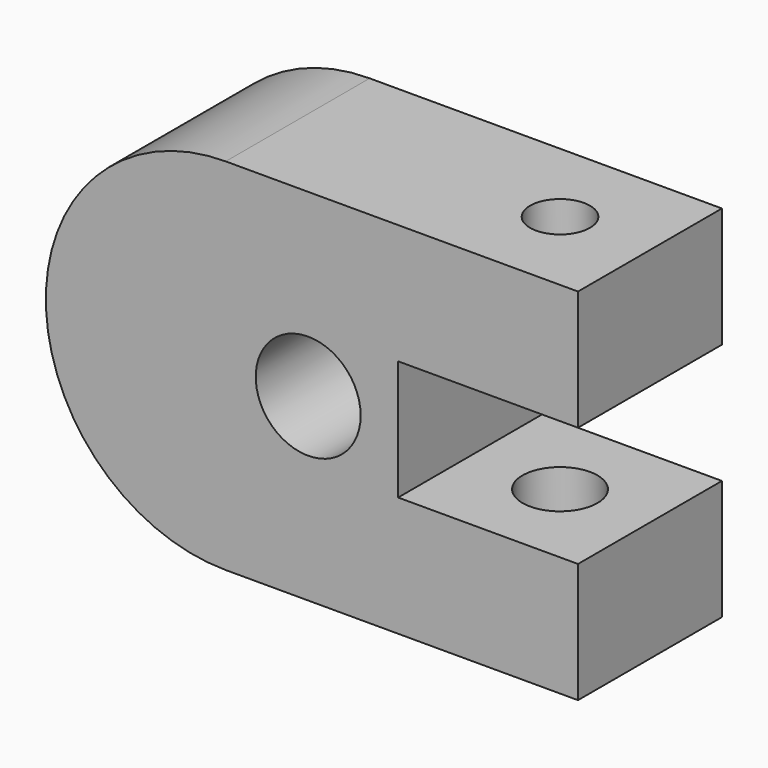
from build123d import *

# Parameters (mm, degrees)
F0_R     = 22.225
F1_DEPTH = 76.2
F2_R     = 12.7
F4_DEPTH = 56.642
F3_R     = 15.875
F5_DEPTH = 101.6


with BuildPart() as f1:
    # F0 (on Front) → F1 (new body)
    with BuildSketch(Plane.XZ):
        with BuildLine():
            Line((-149.225, 0), (0, 0))
            Line((0, 0), (0, 50.8))
            Line((0, 50.8), (-76.2, 50.8))
            Line((-76.2, 50.8), (-76.2, 101.6))
            Line((-76.2, 101.6), (0, 101.6))
            Line((0, 101.6), (0, 152.4))
            Line((0, 152.4), (-149.225, 152.4))
            ThreePointArc((-149.225, 152.4), (-225.425, 76.2), (-149.225, 0))
        make_face()
        with Locations((-114.3, 76.2)):
            Circle(F0_R, mode=Mode.SUBTRACT)
    extrude(amount=F1_DEPTH)

    # F2 (on face) → F4 (cut)
    with BuildSketch(Plane.XY.offset(152.4)):
        with Locations((-38.1, -38.1)):
            Circle(F2_R)
    extrude(amount=-F4_DEPTH, mode=Mode.SUBTRACT)

    # F3 (on face) → F5 (cut)
    with BuildSketch(Plane.XY.offset(50.8)):
        with Locations((-38.1, -38.1)):
            Circle(F3_R)
    extrude(amount=-F5_DEPTH, mode=Mode.SUBTRACT)


solid = f1.part
